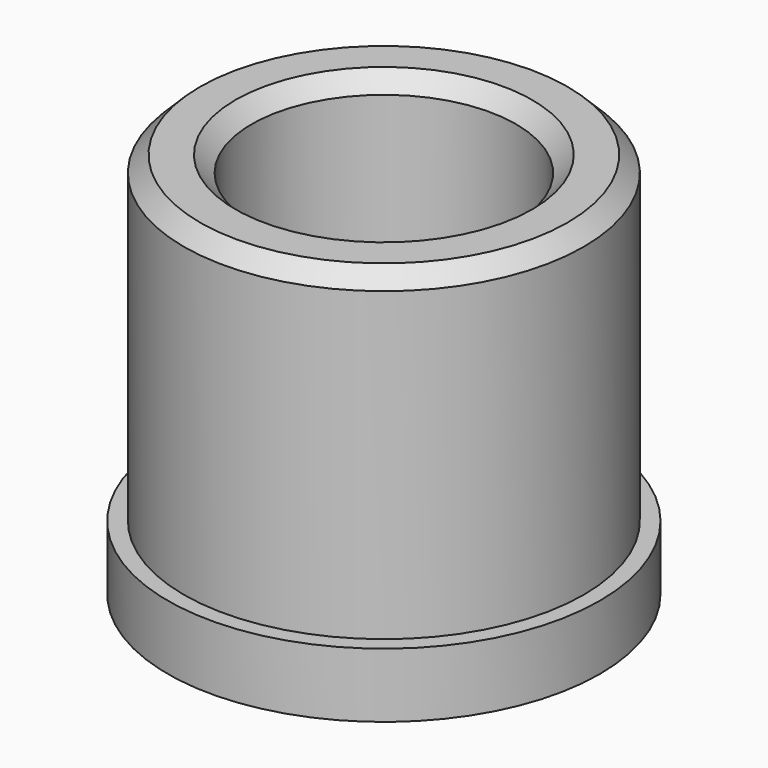
from build123d import *

# Parameters (mm, degrees)
F0_R     = 6.7
F0_R_2   = 4.1
F1_DEPTH = 2
F2_R     = 6.2
F2_R_2   = 4.1
F3_DEPTH = 10
F4_SIZE  = 0.5


with BuildPart() as f1:
    # F0 (on Top) → F1 (new body)
    with BuildSketch(Plane.XY):
        Circle(F0_R)
        Circle(F0_R_2, mode=Mode.SUBTRACT)
    extrude(amount=F1_DEPTH)

    # F2 (on face) → F3 (join)
    with BuildSketch(Plane.XY.offset(2)):
        Circle(F2_R)
        Circle(F2_R_2, mode=Mode.SUBTRACT)
    extrude(amount=F3_DEPTH)

    # F4
    f4_edges = [f1.edges().sort_by_distance(p)[0] for p in [
        (-4.1, 0, 12),
        (-6.2, 0, 12),
    ]]
    chamfer(f4_edges, length=F4_SIZE)


solid = f1.part
